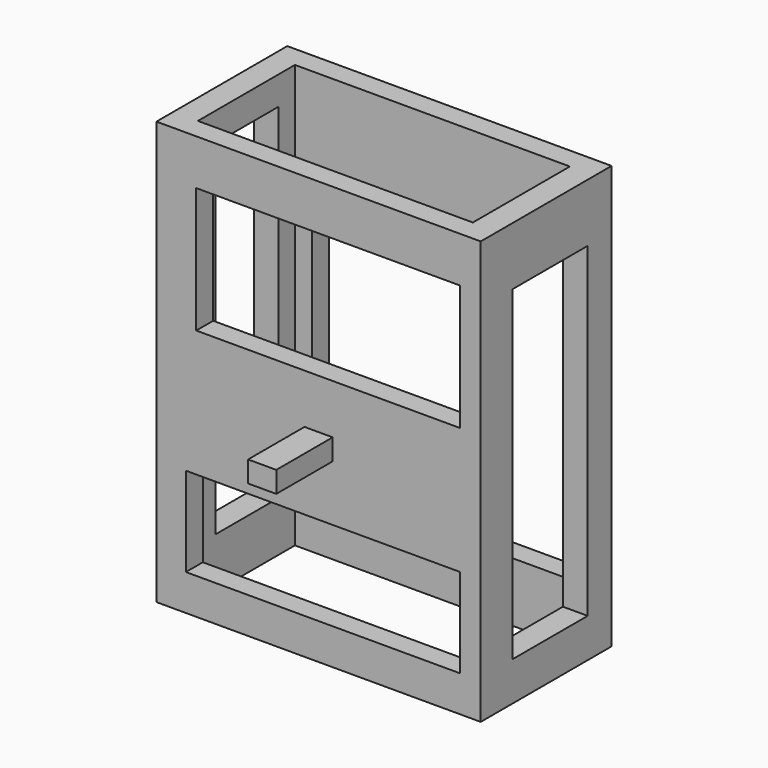
from build123d import *

# Parameters (mm, degrees)
F1_DEPTH  = 30
F2_W      = 6.674083
F2_H      = 23.102594
F3_DEPTH  = 2.5
F4_W      = 5.588458
F4_H      = 24.429547
F5_DEPTH  = 2.5
F6_W      = 18.183109
F6_H      = 19.870534
F7_DEPTH  = 2.5
F8_W      = 19.441772
F8_H      = 6.327746
F8_W_2    = 18.70812
F8_H_2    = 8.895528
F9_DEPTH  = 2.5
F10_W     = 2
F10_H     = 1.5
F11_DEPTH = 5


with BuildPart() as f1:
    # F0 (on Top) → F1 (new body)
    with BuildSketch(Plane.XY):
        Polygon((-5.624948, 38.338026), (-16.317087, 38.338026), (-16.317087, 26.738026), (-3.303813, 26.738026), (-3.164812, 26.738026), (6.682913, 26.738026), (6.682913, 38.338026), (-5.508062, 38.338026), align=None)
        Polygon((-14.575047, 32.538026), (-14.575047, 36.838026), (-5.625147, 36.838026), (-5.508261, 36.838026), (4.924953, 36.838026), (4.924953, 28.238026), (-3.164812, 28.238026), (-3.303813, 28.238026), (-14.575047, 28.238026), (-14.575047, 32.102089), align=None, mode=Mode.SUBTRACT)
    extrude(amount=F1_DEPTH)

    # F2 (on face) → F3 (cut)
    with BuildSketch(Plane.YZ.offset(6.682913)):
        with Locations((32.882399, 14.318564)):
            Rectangle(F2_W, F2_H)
    extrude(amount=-F3_DEPTH, mode=Mode.SUBTRACT)

    # F4 (on face) → F5 (cut)
    with BuildSketch(Plane(origin=(-16.317087, 0, 0), x_dir=(0, -1, 0), z_dir=(-1, 0, 0))):
        with Locations((-32.585687, 15.768258)):
            Rectangle(F4_W, F4_H)
    extrude(amount=-F5_DEPTH, mode=Mode.SUBTRACT)

    # F6 (on face) → F7 (cut)
    with BuildSketch(Plane(origin=(0, 38.338026, 0), x_dir=(-1, 0, 0), z_dir=(0, 1, 0))):
        with Locations((4.255847, 14.15753)):
            Rectangle(F6_W, F6_H)
    extrude(amount=-F7_DEPTH, mode=Mode.SUBTRACT)

    # F8 (on face) → F9 (cut)
    with BuildSketch(Plane.XZ.offset(-26.738026)):
        with Locations((-4.50602, 5.721706)):
            Rectangle(F8_W, F8_H)
        with Locations((-4.139194, 22.320578)):
            Rectangle(F8_W_2, F8_H_2)
    extrude(amount=-F9_DEPTH, mode=Mode.SUBTRACT)

    # F10 (on face) → F11 (join)
    with BuildSketch(Plane.XZ.offset(-26.738026)):
        with Locations((-4.817087, 13.603965)):
            Rectangle(F10_W, F10_H)
    extrude(amount=F11_DEPTH)


solid = f1.part
